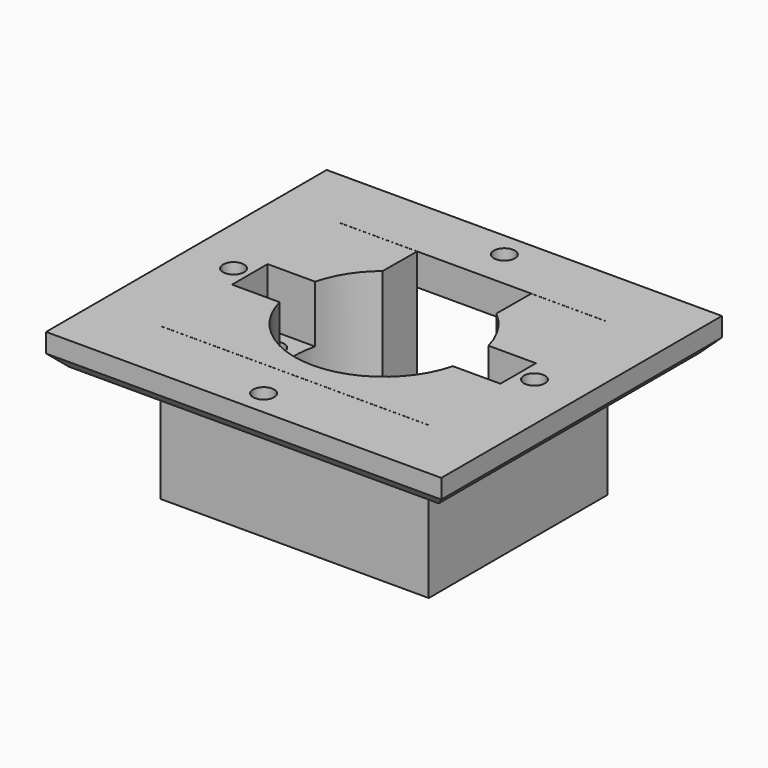
from build123d import *

# Parameters (mm, degrees)
F0_W      = 42.3
F0_H      = 35.2431833744
F0_R      = 1.75
F1_DEPTH  = 20
F3_DEPTH  = 20
F4_DEPTH  = 1
F5_R      = 1.75
F6_DEPTH  = 5
F7_W      = 62.3000003397
F7_H      = 55.2812255919
F8_DEPTH  = 4
F9_DEPTH  = 1
F10_DEPTH = 4
F11_R     = 1.6604727816
F12_DEPTH = 6
F13_SIZE  = 2


with BuildPart() as f1:
    # F0 (on Top) → F1 (new body)
    with BuildSketch(Plane.XY):
        Rectangle(F0_W, F0_H)
        with BuildLine():
            ThreePointArc((-13.6586968632, 3.5), (0, 14.1), (13.6586968632, 3.5))
            Line((13.6586968632, 3.5), (17.6, 3.5))
            ThreePointArc((17.6, 3.5), (20.0748737342, 2.4748737342), (21.1, 0))
            ThreePointArc((21.1, 0), (20.0748737342, -2.4748737342), (17.6, -3.5))
            Line((17.6, -3.5), (13.6586968632, -3.5))
            ThreePointArc((13.6586968632, -3.5), (0, -14.1), (-13.6586968632, -3.5))
            Line((-13.6586968632, -3.5), (-17.6, -3.5))
            ThreePointArc((-17.6, -3.5), (-20.0748737342, -2.4748737342), (-21.1, 0))
            ThreePointArc((-21.1, 0), (-20.0748737342, 2.4748737342), (-17.6, 3.5))
            Line((-17.6, 3.5), (-13.6586968632, 3.5))
        make_face(mode=Mode.SUBTRACT)
        Rectangle(F0_W, F0_H)
        with BuildLine():
            ThreePointArc((-13.6586968632, 3.5), (0, 14.1), (13.6586968632, 3.5))
            Line((13.6586968632, 3.5), (17.6, 3.5))
            ThreePointArc((17.6, 3.5), (20.0748737342, 2.4748737342), (21.1, 0))
            ThreePointArc((21.1, 0), (20.0748737342, -2.4748737342), (17.6, -3.5))
            Line((17.6, -3.5), (13.6586968632, -3.5))
            ThreePointArc((13.6586968632, -3.5), (0, -14.1), (-13.6586968632, -3.5))
            Line((-13.6586968632, -3.5), (-17.6, -3.5))
            ThreePointArc((-17.6, -3.5), (-20.0748737342, -2.4748737342), (-21.1, 0))
            ThreePointArc((-21.1, 0), (-20.0748737342, 2.4748737342), (-17.6, 3.5))
            Line((-17.6, 3.5), (-13.6586968632, 3.5))
        make_face(mode=Mode.SUBTRACT)
        with BuildLine():
            ThreePointArc((-14.1, 0), (-13.9892391818, 1.7638557522), (-13.6586968632, 3.5))
            Line((-13.6586968632, 3.5), (-17.6, 3.5))
            ThreePointArc((-17.6, 3.5), (-20.0748737342, 2.4748737342), (-21.1, 0))
            ThreePointArc((-21.1, 0), (-20.0748737342, -2.4748737342), (-17.6, -3.5))
            Line((-17.6, -3.5), (-13.6586968632, -3.5))
            ThreePointArc((-13.6586968632, -3.5), (-13.9892391818, -1.7638557522), (-14.1, 0))
        make_face()
        with Locations((-17.5, 0)):
            Circle(F0_R, mode=Mode.SUBTRACT)
        with BuildLine():
            ThreePointArc((13.6586968632, 3.5), (13.9892391818, 1.7638557522), (14.1, 0))
            ThreePointArc((14.1, 0), (13.9892391818, -1.7638557522), (13.6586968632, -3.5))
            Line((13.6586968632, -3.5), (17.6, -3.5))
            ThreePointArc((17.6, -3.5), (20.0748737342, -2.4748737342), (21.1, 0))
            ThreePointArc((21.1, 0), (20.0748737342, 2.4748737342), (17.6, 3.5))
            Line((17.6, 3.5), (13.6586968632, 3.5))
        make_face()
        with BuildLine():
            ThreePointArc((19.25, 0), (17.5, -1.75), (15.75, 0))
            ThreePointArc((15.75, 0), (17.5, 1.75), (19.25, 0))
        make_face(mode=Mode.SUBTRACT)
    extrude(amount=F1_DEPTH)

    # F2 (on face) → F3 (cut)
    with BuildSketch(Plane.XY.offset(20)):
        with BuildLine():
            Line((9.1142978397, 17.6215916872), (-8.8857021603, 17.6215916872))
            Line((-8.8857021603, 17.6215916872), (-8.9292200042, 10.9123338529))
            ThreePointArc((-8.9292200042, 10.9123338529), (0.0914540337, 14.0997034068), (9.0700227445, 10.7955864784))
            Line((9.0700227445, 10.7955864784), (9.1142978397, 17.6215916872))
        make_face()
    extrude(amount=-F3_DEPTH, mode=Mode.SUBTRACT)

    # F0 (on Top) → F4 (cut)
    with BuildSketch(Plane.XY):
        with BuildLine():
            ThreePointArc((-14.1, 0), (-13.9892391818, 1.7638557522), (-13.6586968632, 3.5))
            Line((-13.6586968632, 3.5), (-17.6, 3.5))
            ThreePointArc((-17.6, 3.5), (-20.0748737342, 2.4748737342), (-21.1, 0))
            ThreePointArc((-21.1, 0), (-20.0748737342, -2.4748737342), (-17.6, -3.5))
            Line((-17.6, -3.5), (-13.6586968632, -3.5))
            ThreePointArc((-13.6586968632, -3.5), (-13.9892391818, -1.7638557522), (-14.1, 0))
        make_face()
        with Locations((-17.5, 0)):
            Circle(F0_R, mode=Mode.SUBTRACT)
        with BuildLine():
            ThreePointArc((13.6586968632, 3.5), (13.9892391818, 1.7638557522), (14.1, 0))
            ThreePointArc((14.1, 0), (13.9892391818, -1.7638557522), (13.6586968632, -3.5))
            Line((13.6586968632, -3.5), (17.6, -3.5))
            ThreePointArc((17.6, -3.5), (20.0748737342, -2.4748737342), (21.1, 0))
            ThreePointArc((21.1, 0), (20.0748737342, 2.4748737342), (17.6, 3.5))
            Line((17.6, 3.5), (13.6586968632, 3.5))
        make_face()
        with BuildLine():
            ThreePointArc((19.25, 0), (17.5, -1.75), (15.75, 0))
            ThreePointArc((15.75, 0), (17.5, 1.75), (19.25, 0))
        make_face(mode=Mode.SUBTRACT)
    extrude(amount=F4_DEPTH, mode=Mode.SUBTRACT)

    # F5 (on face) → F6 (cut)
    with BuildSketch(Plane.XY.offset(20)):
        with BuildLine():
            ThreePointArc((-13.6586968632, -3.5), (-14.1, 0), (-13.6586968632, 3.5))
            Line((-13.6586968632, 3.5), (-21.15, 3.5))
            Line((-21.15, 3.5), (-21.15, -3.5))
            Line((-21.15, -3.5), (-13.6586968632, -3.5))
        make_face()
        with Locations((-17.5, 0)):
            Circle(F5_R, mode=Mode.SUBTRACT)
        with BuildLine():
            Line((21.15, -3.5), (21.15, 3.5))
            Line((21.15, 3.5), (13.6586968632, 3.5))
            ThreePointArc((13.6586968632, 3.5), (14.1, 0), (13.6586968632, -3.5))
            Line((13.6586968632, -3.5), (21.15, -3.5))
        make_face()
        with Locations((17.5, 0)):
            Circle(F5_R, mode=Mode.SUBTRACT)
    extrude(amount=-F6_DEPTH, mode=Mode.SUBTRACT)

    # F10 (add): faces of the model
    f10_faces = [f1.faces().sort_by_distance(p)[0] for p in [
        (-15.655980784, 11.1858977237, 20),
        (15.7115170965, 11.1581962094, 20),
        (-20.704050524, -10.5607958436, 20),
    ]]


with BuildPart() as f8:
    # F7 (on face) → F8 (new body)
    with BuildSketch(Plane.XY.offset(20)):
        Rectangle(F7_W, F7_H)
        Polygon((-21.15, 17.6406126261), (21.15, 17.6406126261), (21.15, -17.6406126261), (-21.15, -17.6406126261), (-21.15, 3.5), (-21.15, 17.6215916872), align=None, mode=Mode.SUBTRACT)
    extrude(amount=F8_DEPTH)


with BuildPart() as f9:
    # F9 (new): a face of the model
    f9_faces = [f8.part.faces().sort_by_distance(p)[0] for p in [
        (0, -26.8077080028, 20),
    ]]
    extrude(f9_faces, amount=F9_DEPTH)


with BuildPart() as f1_1:
    add(f1.part)

    add(f8.part)  # F10 merges F8

    add(f9.part)  # F10 merges F9
    extrude(f10_faces, amount=F10_DEPTH)

    # F11 (on face) → F12 (cut)
    with BuildSketch(Plane(origin=(0, 0, 19), x_dir=(1, 0, 0), z_dir=(0, 0, -1))):
        with Locations((0, 23.7122699618)):
            Circle(F11_R)
        with Locations((23.7122699618, 0)):
            Circle(F11_R)
        with Locations((0, -23.7122699618)):
            Circle(F11_R)
        with Locations((-23.7122699618, 0)):
            Circle(F11_R)
    extrude(amount=-F12_DEPTH, mode=Mode.SUBTRACT)

    # F13
    f13_edges = [f1_1.edges().sort_by_distance(p)[0] for p in [
        (-31.15, 0, 19),
        (0, -27.640613, 19),
        (31.15, 0, 19),
        (0, 27.640613, 19),
    ]]
    chamfer(f13_edges, length=F13_SIZE)


solid = f1_1.part
